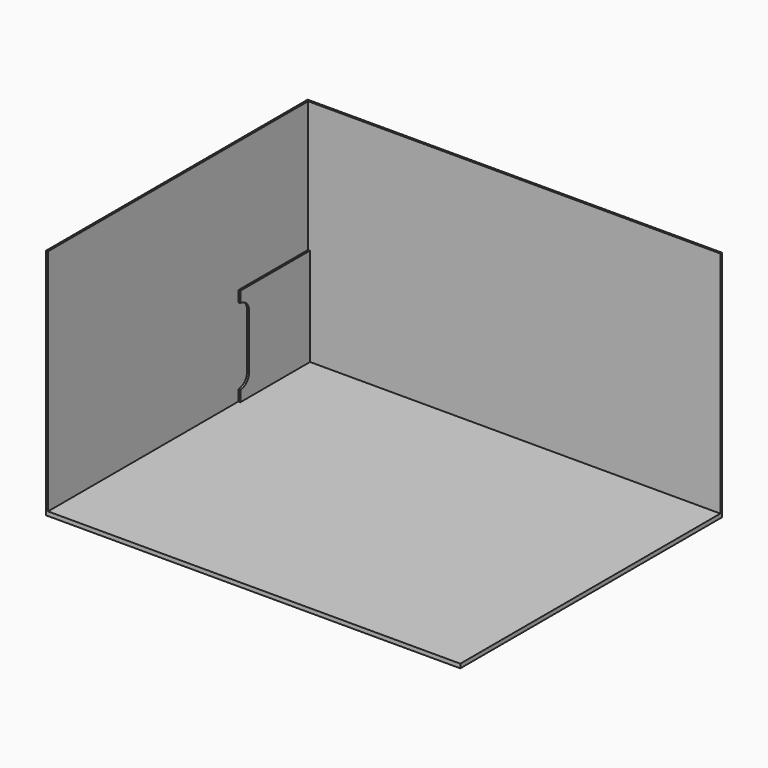
from build123d import *

# Parameters (mm, degrees)
F0_W     = 3800
F0_H     = 3000
F1_DEPTH = 38
F2_W     = 3800
F2_H     = 18
F3_DEPTH = 2100
F4_W     = 18
F4_H     = 2982
F5_DEPTH = 2100
F7_DEPTH = 18


with BuildPart() as f1:
    # F0 (on Top) → F1 (new body)
    with BuildSketch(Plane.XY):
        with Locations((1900, -1500)):
            Rectangle(F0_W, F0_H)
    extrude(amount=F1_DEPTH)

    # F2 (on face) → F3 (join)
    with BuildSketch(Plane.XY.offset(38)):
        with Locations((1900, -9)):
            Rectangle(F2_W, F2_H)
    extrude(amount=F3_DEPTH)

    # F4 (on face) → F5 (join)
    with BuildSketch(Plane.XY.offset(38)):
        with Locations((9, -1509)):
            Rectangle(F4_W, F4_H)
    extrude(amount=F5_DEPTH)


with BuildPart() as f7:
    # F6 (on face) → F7 (new body)
    with BuildSketch(Plane.YZ.offset(18)):
        with BuildLine():
            Line((-818, 138), (-818, 38))
            Line((-818, 38), (-18, 38))
            Line((-18, 38), (-18, 938))
            Line((-18, 938), (-818, 938))
            Line((-818, 938), (-818, 838))
            ThreePointArc((-818, 838), (-747.289322, 808.710678), (-718, 738))
            Line((-718, 738), (-718, 238))
            ThreePointArc((-718, 238), (-747.289322, 167.289322), (-818, 138))
        make_face()
    extrude(amount=F7_DEPTH)


solid = Compound([f1.part, f7.part])
